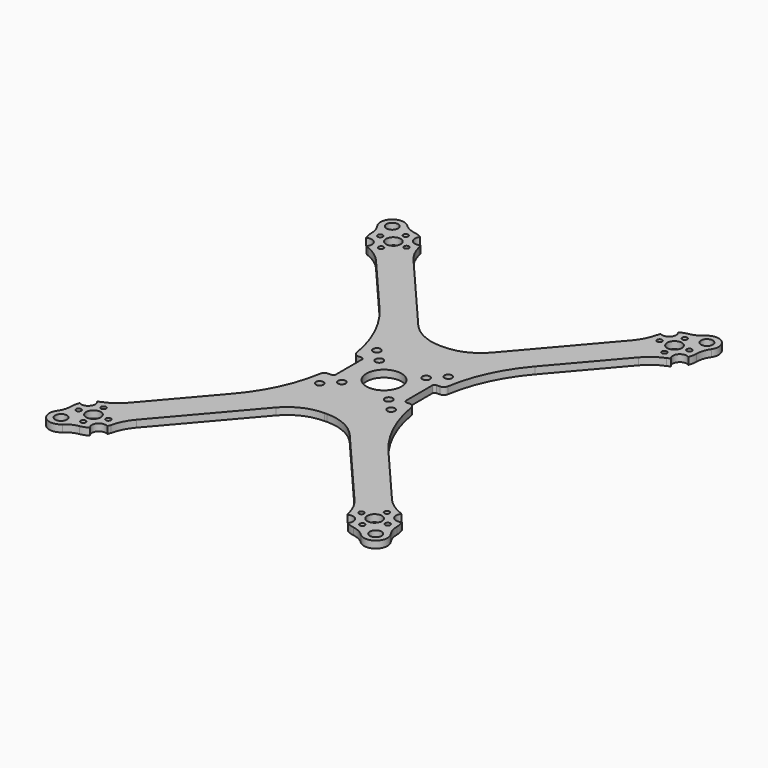
from build123d import *

# Parameters (mm, degrees)
F0_R     = 2.5
F0_R_2   = 1.075
F0_R_3   = 3.125
F0_R_4   = 1.625
F0_R_5   = 7.5
F1_DEPTH = 3


with BuildPart() as f1:
    # F0 (on Top) → F1 (new body)
    with BuildSketch(Plane.XY):
        with BuildLine():
            Line((0.569565, 31), (-0.569565, 31))
            ThreePointArc((-0.569565, 31), (-8.926702, 32.829742), (-15.754697, 37.984173))
            Line((-15.754697, 37.984173), (-46.49461, 73.847404))
            ThreePointArc((-46.49461, 73.847404), (-49.125284, 77.77494), (-50.760679, 82.210193))
            ThreePointArc((-50.760679, 82.210193), (-50.962024, 82.926601), (-51.218827, 83.625051))
            ThreePointArc((-51.218827, 83.625051), (-55.064832, 84.230144), (-55.074594, 88.123446))
            ThreePointArc((-55.074594, 88.123446), (-56.708639, 88.911619), (-58.462718, 89.374794))
            ThreePointArc((-58.462718, 89.374794), (-61.287272, 90.284092), (-63.720645, 91.982215))
            ThreePointArc((-63.720645, 91.982215), (-70.412662, 92.148106), (-71.272207, 85.509447))
            ThreePointArc((-71.272207, 85.509447), (-69.966225, 82.844989), (-69.499616, 79.914595))
            ThreePointArc((-69.499616, 79.914595), (-69.310161, 78.110315), (-68.781173, 76.374949))
            ThreePointArc((-68.781173, 76.374949), (-64.935168, 75.769856), (-64.925406, 71.876554))
            ThreePointArc((-64.925406, 71.876554), (-64.274449, 71.515951), (-63.597263, 71.207407))
            ThreePointArc((-63.597263, 71.207407), (-59.464309, 68.912919), (-55.985318, 65.712512))
            Line((-55.985318, 65.712512), (-33.129578, 39.047482))
            ThreePointArc((-33.129578, 39.047482), (-24.280666, 25.301606), (-19.470554, 9.677419))
            ThreePointArc((-19.470554, 9.677419), (-18.791892, 8.475998), (-17.49674, 8))
            Line((-17.49674, 8), (-16, 8))
            ThreePointArc((-16, 8), (-15.292893, 7.707107), (-15, 7))
            Line((-15, 7), (-15, -7))
            ThreePointArc((-15, -7), (-15.292893, -7.707107), (-16, -8))
            Line((-16, -8), (-17.49674, -8))
            ThreePointArc((-17.49674, -8), (-18.791892, -8.475998), (-19.470554, -9.677419))
            ThreePointArc((-19.470554, -9.677419), (-24.280666, -25.301606), (-33.129578, -39.047482))
            Line((-33.129578, -39.047482), (-55.985318, -65.712512))
            ThreePointArc((-55.985318, -65.712512), (-59.464309, -68.912919), (-63.597263, -71.207407))
            ThreePointArc((-63.597263, -71.207407), (-64.274449, -71.515951), (-64.925406, -71.876554))
            ThreePointArc((-64.925406, -71.876554), (-64.935168, -75.769856), (-68.781173, -76.374949))
            ThreePointArc((-68.781173, -76.374949), (-69.310161, -78.110315), (-69.499616, -79.914595))
            ThreePointArc((-69.499616, -79.914595), (-69.966225, -82.844989), (-71.272207, -85.509447))
            ThreePointArc((-71.272207, -85.509447), (-70.412662, -92.148106), (-63.720645, -91.982215))
            ThreePointArc((-63.720645, -91.982215), (-61.287272, -90.284092), (-58.462718, -89.374794))
            ThreePointArc((-58.462718, -89.374794), (-56.708639, -88.911619), (-55.074594, -88.123446))
            ThreePointArc((-55.074594, -88.123446), (-55.064832, -84.230144), (-51.218827, -83.625051))
            ThreePointArc((-51.218827, -83.625051), (-50.962024, -82.926601), (-50.760679, -82.210193))
            ThreePointArc((-50.760679, -82.210193), (-49.125284, -77.77494), (-46.49461, -73.847404))
            Line((-46.49461, -73.847404), (-15.754697, -37.984173))
            ThreePointArc((-15.754697, -37.984173), (-8.926702, -32.829742), (-0.569565, -31))
            Line((-0.569565, -31), (0.569565, -31))
            ThreePointArc((0.569565, -31), (8.926702, -32.829742), (15.754697, -37.984173))
            Line((15.754697, -37.984173), (46.49461, -73.847404))
            ThreePointArc((46.49461, -73.847404), (49.125284, -77.77494), (50.760679, -82.210193))
            ThreePointArc((50.760679, -82.210193), (50.962024, -82.926601), (51.218827, -83.625051))
            ThreePointArc((51.218827, -83.625051), (55.064832, -84.230144), (55.074594, -88.123446))
            ThreePointArc((55.074594, -88.123446), (56.708639, -88.911619), (58.462718, -89.374794))
            ThreePointArc((58.462718, -89.374794), (61.287272, -90.284092), (63.720645, -91.982215))
            ThreePointArc((63.720645, -91.982215), (70.412662, -92.148106), (71.272207, -85.509447))
            ThreePointArc((71.272207, -85.509447), (69.966225, -82.844989), (69.499616, -79.914595))
            ThreePointArc((69.499616, -79.914595), (69.310161, -78.110315), (68.781173, -76.374949))
            ThreePointArc((68.781173, -76.374949), (64.935168, -75.769856), (64.925406, -71.876554))
            ThreePointArc((64.925406, -71.876554), (64.274449, -71.515951), (63.597263, -71.207407))
            ThreePointArc((63.597263, -71.207407), (59.464309, -68.912919), (55.985318, -65.712512))
            Line((55.985318, -65.712512), (33.129578, -39.047482))
            ThreePointArc((33.129578, -39.047482), (24.280666, -25.301606), (19.470554, -9.677419))
            ThreePointArc((19.470554, -9.677419), (18.791892, -8.475998), (17.49674, -8))
            Line((17.49674, -8), (16, -8))
            ThreePointArc((16, -8), (15.292893, -7.707107), (15, -7))
            Line((15, -7), (15, 7))
            ThreePointArc((15, 7), (15.292893, 7.707107), (16, 8))
            Line((16, 8), (17.49674, 8))
            ThreePointArc((17.49674, 8), (18.791892, 8.475998), (19.470554, 9.677419))
            ThreePointArc((19.470554, 9.677419), (24.280666, 25.301606), (33.129578, 39.047482))
            Line((33.129578, 39.047482), (55.985318, 65.712512))
            ThreePointArc((55.985318, 65.712512), (59.464309, 68.912919), (63.597263, 71.207407))
            ThreePointArc((63.597263, 71.207407), (64.274449, 71.515951), (64.925406, 71.876554))
            ThreePointArc((64.925406, 71.876554), (64.935168, 75.769856), (68.781173, 76.374949))
            ThreePointArc((68.781173, 76.374949), (69.310161, 78.110315), (69.499616, 79.914595))
            ThreePointArc((69.499616, 79.914595), (69.966225, 82.844989), (71.272207, 85.509447))
            ThreePointArc((71.272207, 85.509447), (70.412662, 92.148106), (63.720645, 91.982215))
            ThreePointArc((63.720645, 91.982215), (61.287272, 90.284092), (58.462718, 89.374794))
            ThreePointArc((58.462718, 89.374794), (56.708639, 88.911619), (55.074594, 88.123446))
            ThreePointArc((55.074594, 88.123446), (55.064832, 84.230144), (51.218827, 83.625051))
            ThreePointArc((51.218827, 83.625051), (50.962024, 82.926601), (50.760679, 82.210193))
            ThreePointArc((50.760679, 82.210193), (49.125284, 77.77494), (46.49461, 73.847404))
            Line((46.49461, 73.847404), (15.754697, 37.984173))
            ThreePointArc((15.754697, 37.984173), (8.926702, 32.829742), (0.569565, 31))
        make_face()
        with Locations((-67.158705, -88.351823)):
            Circle(F0_R, mode=Mode.SUBTRACT)
        with Locations((-59.539821, -85.982327)):
            Circle(F0_R_2, mode=Mode.SUBTRACT)
        with Locations((-65.982327, -80.460179)):
            Circle(F0_R_2, mode=Mode.SUBTRACT)
        with Locations((-60, -80)):
            Circle(F0_R_3, mode=Mode.SUBTRACT)
        with Locations((-60.460179, -74.017673)):
            Circle(F0_R_2, mode=Mode.SUBTRACT)
        with Locations((-54.017673, -79.539821)):
            Circle(F0_R_2, mode=Mode.SUBTRACT)
        with Locations((-15.25, -15.25)):
            Circle(F0_R_4, mode=Mode.SUBTRACT)
        with Locations((-10, -10)):
            Circle(F0_R_4, mode=Mode.SUBTRACT)
        with Locations((54.017673, -79.539821)):
            Circle(F0_R_2, mode=Mode.SUBTRACT)
        with Locations((59.539821, -85.982327)):
            Circle(F0_R_2, mode=Mode.SUBTRACT)
        with Locations((67.158705, -88.351823)):
            Circle(F0_R, mode=Mode.SUBTRACT)
        with Locations((60, -80)):
            Circle(F0_R_3, mode=Mode.SUBTRACT)
        with Locations((60.460179, -74.017673)):
            Circle(F0_R_2, mode=Mode.SUBTRACT)
        with Locations((65.982327, -80.460179)):
            Circle(F0_R_2, mode=Mode.SUBTRACT)
        with Locations((15.25, -15.25)):
            Circle(F0_R_4, mode=Mode.SUBTRACT)
        with Locations((10, -10)):
            Circle(F0_R_4, mode=Mode.SUBTRACT)
        with Locations((-10, 10)):
            Circle(F0_R_4, mode=Mode.SUBTRACT)
        with Locations((-15.25, 15.25)):
            Circle(F0_R_4, mode=Mode.SUBTRACT)
        with Locations((-65.982327, 80.460179)):
            Circle(F0_R_2, mode=Mode.SUBTRACT)
        with Locations((-60.460179, 74.017673)):
            Circle(F0_R_2, mode=Mode.SUBTRACT)
        with Locations((-60, 80)):
            Circle(F0_R_3, mode=Mode.SUBTRACT)
        with Locations((-67.158705, 88.351823)):
            Circle(F0_R, mode=Mode.SUBTRACT)
        with Locations((-59.539821, 85.982327)):
            Circle(F0_R_2, mode=Mode.SUBTRACT)
        with Locations((-54.017673, 79.539821)):
            Circle(F0_R_2, mode=Mode.SUBTRACT)
        Circle(F0_R_5, mode=Mode.SUBTRACT)
        with Locations((10, 10)):
            Circle(F0_R_4, mode=Mode.SUBTRACT)
        with Locations((15.25, 15.25)):
            Circle(F0_R_4, mode=Mode.SUBTRACT)
        with Locations((54.017673, 79.539821)):
            Circle(F0_R_2, mode=Mode.SUBTRACT)
        with Locations((60.460179, 74.017673)):
            Circle(F0_R_2, mode=Mode.SUBTRACT)
        with Locations((60, 80)):
            Circle(F0_R_3, mode=Mode.SUBTRACT)
        with Locations((65.982327, 80.460179)):
            Circle(F0_R_2, mode=Mode.SUBTRACT)
        with Locations((59.539821, 85.982327)):
            Circle(F0_R_2, mode=Mode.SUBTRACT)
        with Locations((67.158705, 88.351823)):
            Circle(F0_R, mode=Mode.SUBTRACT)
    extrude(amount=F1_DEPTH)


solid = f1.part
